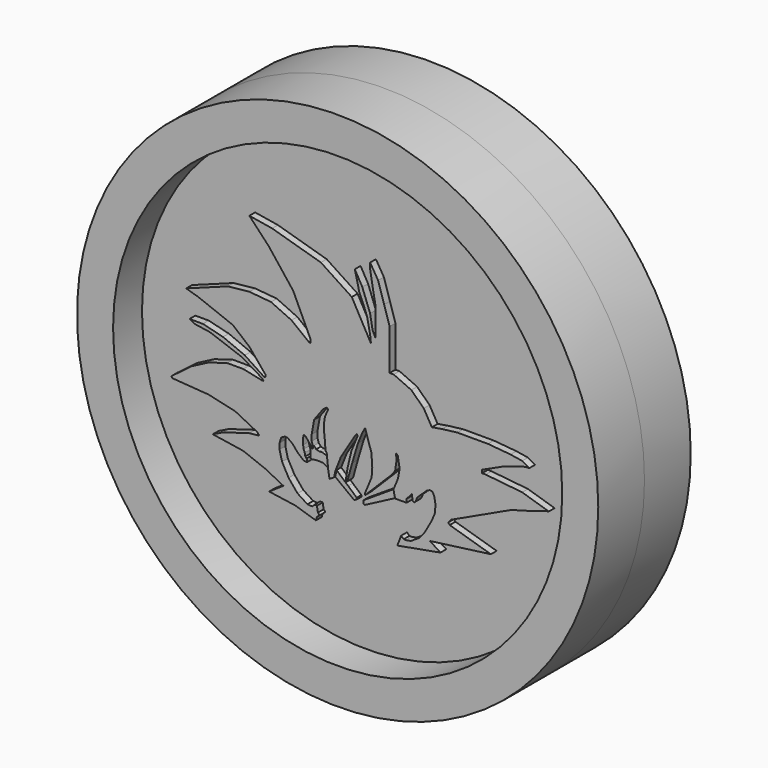
from build123d import *

# Parameters (mm, degrees)
F1_DEPTH = 5.08
F2_DEPTH = 4.826
F3_DEPTH = 4.826
F0_R     = 39.482485228
F4_DEPTH = 3.81
F5_R     = 45.8181827853
F5_R_2   = 39.482485228
F6_DEPTH = 10.16
F7_DEPTH = 3.81
F8_DEPTH = 6.35
F9_DEPTH = 10.16


with BuildPart() as f1:
    # F0 (on Front) → F1 (new body)
    with BuildSketch(Plane.XZ):
        Polygon((7.3746710645, 3.9486071669), (6.6858888604, 2.1941568702), (14.2857981846, 3.5705179907), (12.4307014048, 4.7673545778), (23.1423825026, 6.2035578303), (15.9021917557, 8.3598523904), (15.6442075968, 8.7004518136), (15.9021917557, 8.8958597378), (16.0322742485, 9.210330945), (26.7306175083, 14.2224999145), (29.925365001, 15.1111055166), (32.3584526777, 15.915080905), (33.327155305, 16.1332857281), (28.6478307098, 17.5735000521), (22.2447551787, 18.2317588478), (21.586496383, 18.2317588478), (21.586496383, 18.7703352422), (25.3565292805, 20.5057486892), (29.1864052415, 21.7025838792), (29.8776999116, 21.7025838792), (28.6448411644, 22.4349517375), (26.6068521887, 22.762035951), (22.6315110922, 23.1142807752), (17.2723513097, 23.1142807752), (14.5550305024, 22.7871965617), (12.7686439082, 22.4852710962), (11.341962032, 24.9401442707), (9.1577358544, 27.0645264536), (6.0719558969, 28.45916152), (5.3434474394, 28.45916152), (5.3434474394, 35.6499776244), (4.3805075403, 38.7313879991), (3.3178373461, 42.1319355974), (1.9164526602, 44.4467253983), (1.9164526602, 43.4294119477), (2.3951865733, 40.6168475747), (2.8739213012, 38.0436517298), (2.8739213012, 33.0169387162), (2.3353458382, 34.1539345682), (1.9164526602, 36.5476049483), (0.5400917144, 40.1979573071), (-0.7764283218, 42.5317846239), (0, 39.3003299832), (0.8991421782, 37.146024406), (1.3928283006, 35.8841791749), (1.9164526602, 33.2688912749), (2.0510982722, 31.9879353046), (-1.307500992, 38.0617417395), (-6.7421416752, 41.6345149279), (-15.3062911704, 44.1220253706), (-19.3156916648, 44.7802841663), (-15.891989693, 41.1512665451), (-11.61822211, 35.692691803), (-8.5292598233, 29.0916208178), (-8.5292598233, 28.6050047725), (-8.7704447114, 28.5796530137), (-11.907691136, 31.0169328004), (-15.5044263229, 32.6672010124), (-19.3156916648, 33.0169387162), (-23.0980009574, 32.6193674013), (-30.4214488715, 29.9246963114), (-28.2865203917, 29.2842164636), (-22.2375560552, 26.9357953221), (-19.3156916648, 24.51620996), (-16.473248601, 21.1003236473), (-16.473248601, 20.7837633789), (-16.6498859172, 20.636779121), (-20.1186016202, 22.9237489402), (-23.9429809153, 24.51620996), (-27.4654328823, 25.3894664347), (-29.8305097967, 25.3894664347), (-28.9990734309, 24.9234288931), (-26.2697860599, 24.51620996), (-20.6419527531, 22.490343079), (-17.108688131, 20.3746147454), (-16.8141527909, 20.0206589355), (-17.108688131, 20.0206589355), (-20.388064906, 20.7131318748), (-23.2019815594, 20.7131318748), (-26.4813583344, 19.7398979217), (-29.4856913388, 18.1742589921), (-33.0401137471, 15.4872853309), (-32.8464944483, 15.2311589742), (-26.4813583344, 14.7720091045), (-21.797452122, 13.7045448646), (-17.9189965129, 11.7475269362), (-17.5576060093, 11.3132283955), (-19.3156916648, 11.1284300695), (-23.9323806018, 9.7549268976), (-25.747070089, 8.8653732091), (-20.4097479582, 8.0469837412), (-16.473248601, 6.5169511363), (-13.3289005607, 4.9157547764), (-15.8459376544, 3.2246890478), (-11.2680401653, 2.5664295536), (-7.6176896691, 1.4294354478), (-7.415470896, 2.078664318), (-6.9893510081, 2.4168246891), (-7.2644398961, 2.7634674544), (-7.4476022273, 3.7587014958), (-7.8661687343, 3.7888948418), (-8.2482006401, 3.3850888722), (-9.1066886331, 3.4470160082), (-10.8456974849, 4.5592999086), (-12.4113112688, 6.4629446715), (-13.5677317157, 8.5800820962), (-14.0125080943, 10.3413984179), (-14.0125080943, 11.3199083135), (-13.7100601569, 12.2806262225), (-13.0695812404, 12.6542383805), (-12.6460829401, 12.623689279), (-11.7352511734, 11.9781773537), (-10.8812795952, 10.9462952241), (-9.7426502034, 9.9855773151), (-9.1686232148, 9.9441698083), (-9.2342048883, 10.5052217841), (-9.4832796603, 10.7187144458), (-9.5766829327, 11.2613420933), (-9.7679365426, 11.7650190368), (-9.8733649103, 12.3775066481), (-9.8733649103, 13.5352304205), (-9.7412504256, 14.0333808959), (-9.3765333295, 13.7932011858), (-8.9406520128, 13.2683645934), (-8.5581438616, 12.8057962283), (-8.3802333102, 12.6990498975), (-8.352696879, 12.5390766067), (-8.1365322694, 12.7230277285), (-8.352696879, 13.4524619207), (-8.352696879, 14.5021351054), (-7.9230396077, 16.9395133853), (-6.3396338373, 19.0744418651), (-5.6813638657, 19.5370092988), (-5.4811815873, 19.2521341149), (-5.6991549209, 18.8075751066), (-6.0371854343, 17.9358124733), (-6.1973049305, 16.9573035091), (-6.1973049305, 15.7475098968), (-6.0549764894, 14.5021351054), (-5.9304386377, 12.8475660458), (-5.6457817554, 12.2960424051), (-5.6457817554, 11.8156829849), (-5.4536014795, 9.9441698083), (-5.2270369152, 8.6279397289), (-4.4312765822, 9.1324271634), (-4.1902522432, 10.2395603864), (-3.2206494361, 12.7002792433), (-0.6462820456, 16.9105771929), (-0.4224553925, 17.1648182083), (-0.2697806922, 16.898855567), (-1.359380316, 14.2647754401), (-1.8459975254, 12.2759919614), (-2.0681489259, 11.2613420933), (-2.3537720554, 9.4409175217), (-2.2950486517, 9.0997630677), (-2.0772099709, 9.3872070875), (-1.2324367417, 12.413514778), (-0.2279107866, 15.7810896635), (0.5832642664, 17.7420852807), (1.0380979714, 18.5492494325), (2.1417033859, 15.0617426261), (2.28980463, 12.8190722317), (2.1774375765, 11.2613420933), (1.0118439494, 8.4435483441), (1.0575270371, 8.1781517919), (5.6538102217, 12.7767575905), (6.31064998, 13.6434753828), (6.5787537023, 15.4694877565), (6.4817350385, 16.0331190726), (6.4114902, 16.4412074674), (6.775308652, 16.1654886277), (7.1038365795, 14.2569009307), (6.8110791035, 12.5798108056), (6.2656883243, 11.2613420933), (6.0135602076, 10.6518286106), (6.31064998, 9.3427486718), (8.31324514, 9.3427486718), (8.31324514, 9.9441698083), (9.2348932981, 10.9910547982), (9.4150951073, 9.9441698083), (9.6678909837, 9.8395996059), (9.9333297735, 10.1411071633), (10.2059038875, 10.8000483384), (11.8465097621, 12.3470807448), (12.3542845249, 12.6221254468), (12.8459739036, 12.5866573735), (13.1794186309, 11.9874076918), (13.400657011, 10.702120156), (13.3022894952, 9.3384638239), (12.7612037113, 8.0304023312), (11.3870770693, 5.5918280709), (10.5020601743, 4.5865519306), (9.053750895, 3.6726000253), (8.1865051323, 3.523319773), (7.8284064566, 3.5491512646), align=None)
    extrude(amount=F1_DEPTH)

    # F0 (on Front) → F2 (join)
    with BuildSketch(Plane.XZ):
        Polygon((-2.1501916926, 8.4435483441), (-4.1902522432, 10.2395603864), (-4.4312765822, 9.1324271634), (-1.0950955329, 6.6041112877), (-0.6462820456, 6.8285181187), (-0.6462820456, 7.119548507), align=None)
        Polygon((-6.5773324701, 10.5773876347), (-5.4536014795, 9.9441698083), (-5.6457817554, 11.8156829849), (-6.6954549402, 12.1537139639), (-7.246978581, 12.1537139639), (-7.7629196458, 12.2960424051), (-8.1365322694, 12.7230277285), (-8.352696879, 12.5390766067), (-8.3754687761, 12.2233927005), (-8.7830464242, 12.1532357775), (-8.7830464242, 10.5285393074), (-8.4303084991, 10.5030945142), (-7.7836987329, 10.6143963772), (-7.0903799497, 10.6143963772), align=None)
    extrude(amount=F2_DEPTH)

    # F0 (on Front) → F3 (join)
    with BuildSketch(Plane.XZ):
        Polygon((0.7470592476, 6.4396390487), (6.31064998, 9.3427486718), (6.0135602076, 10.6518286106), (0.5696840817, 7.1212351322), (0.532259605, 6.6024243827), align=None)
    extrude(amount=F3_DEPTH)



with BuildPart() as f4:
    # F0 (on Front) → F4 (new body)
    with BuildSketch(Plane.XZ):
        with Locations((0.2716779029, 23.0211480592)):
            Circle(F0_R)
        Polygon((14.2857981846, 3.5705179907), (6.6858888604, 2.1941568702), (7.3746710645, 3.9486071669), (7.8284064566, 3.5491512646), (8.1865051323, 3.523319773), (9.053750895, 3.6726000253), (10.5020601743, 4.5865519306), (11.3870770693, 5.5918280709), (12.7612037113, 8.0304023312), (13.3022894952, 9.3384638239), (13.400657011, 10.702120156), (13.1794186309, 11.9874076918), (12.8459739036, 12.5866573735), (12.3542845249, 12.6221254468), (11.8465097621, 12.3470807448), (10.2059038875, 10.8000483384), (9.9333297735, 10.1411071633), (9.6678909837, 9.8395996059), (9.4150951073, 9.9441698083), (9.2348932981, 10.9910547982), (8.31324514, 9.9441698083), (8.31324514, 9.3427486718), (6.31064998, 9.3427486718), (0.7470592476, 6.4396390487), (0.532259605, 6.6024243827), (0.5696840817, 7.1212351322), (6.0135602076, 10.6518286106), (6.2656883243, 11.2613420933), (6.8110791035, 12.5798108056), (7.1038365795, 14.2569009307), (6.775308652, 16.1654886277), (6.4114902, 16.4412074674), (6.4817350385, 16.0331190726), (6.5787537023, 15.4694877565), (6.31064998, 13.6434753828), (5.6538102217, 12.7767575905), (1.0575270371, 8.1781517919), (1.0118439494, 8.4435483441), (2.1774375765, 11.2613420933), (2.28980463, 12.8190722317), (2.1417033859, 15.0617426261), (1.0380979714, 18.5492494325), (0.5832642664, 17.7420852807), (-0.2279107866, 15.7810896635), (-1.2324367417, 12.413514778), (-2.0772099709, 9.3872070875), (-2.2950486517, 9.0997630677), (-2.3537720554, 9.4409175217), (-2.0681489259, 11.2613420933), (-1.8459975254, 12.2759919614), (-1.359380316, 14.2647754401), (-0.2697806922, 16.898855567), (-0.4224553925, 17.1648182083), (-0.6462820456, 16.9105771929), (-3.2206494361, 12.7002792433), (-4.1902522432, 10.2395603864), (-2.1501916926, 8.4435483441), (-0.6462820456, 7.119548507), (-0.6462820456, 6.8285181187), (-1.0950955329, 6.6041112877), (-4.4312765822, 9.1324271634), (-5.2270369152, 8.6279397289), (-5.4536014795, 9.9441698083), (-6.5773324701, 10.5773876347), (-7.0903799497, 10.6143963772), (-7.7836987329, 10.6143963772), (-8.4303084991, 10.5030945142), (-8.7830464242, 10.5285393074), (-8.7830464242, 12.1532357775), (-8.3754687761, 12.2233927005), (-8.352696879, 12.5390766067), (-8.3802333102, 12.6990498975), (-8.5581438616, 12.8057962283), (-8.9406520128, 13.2683645934), (-9.3765333295, 13.7932011858), (-9.7412504256, 14.0333808959), (-9.8733649103, 13.5352304205), (-9.8733649103, 12.3775066481), (-9.7679365426, 11.7650190368), (-9.5766829327, 11.2613420933), (-9.4832796603, 10.7187144458), (-9.2342048883, 10.5052217841), (-9.1686232148, 9.9441698083), (-9.7426502034, 9.9855773151), (-10.8812795952, 10.9462952241), (-11.7352511734, 11.9781773537), (-12.6460829401, 12.623689279), (-13.0695812404, 12.6542383805), (-13.7100601569, 12.2806262225), (-14.0125080943, 11.3199083135), (-14.0125080943, 10.3413984179), (-13.5677317157, 8.5800820962), (-12.4113112688, 6.4629446715), (-10.8456974849, 4.5592999086), (-9.1066886331, 3.4470160082), (-8.2482006401, 3.3850888722), (-7.8661687343, 3.7888948418), (-7.4476022273, 3.7587014958), (-7.2644398961, 2.7634674544), (-6.9893510081, 2.4168246891), (-7.415470896, 2.078664318), (-7.6176896691, 1.4294354478), (-11.2680401653, 2.5664295536), (-15.8459376544, 3.2246890478), (-13.3289005607, 4.9157547764), (-16.473248601, 6.5169511363), (-20.4097479582, 8.0469837412), (-25.747070089, 8.8653732091), (-23.9323806018, 9.7549268976), (-19.3156916648, 11.1284300695), (-17.5576060093, 11.3132283955), (-17.9189965129, 11.7475269362), (-21.797452122, 13.7045448646), (-26.4813583344, 14.7720091045), (-32.8464944483, 15.2311589742), (-33.0401137471, 15.4872853309), (-29.4856913388, 18.1742589921), (-26.4813583344, 19.7398979217), (-23.2019815594, 20.7131318748), (-20.388064906, 20.7131318748), (-17.108688131, 20.0206589355), (-16.8141527909, 20.0206589355), (-17.108688131, 20.3746147454), (-20.6419527531, 22.490343079), (-26.2697860599, 24.51620996), (-28.9990734309, 24.9234288931), (-29.8305097967, 25.3894664347), (-27.4654328823, 25.3894664347), (-23.9429809153, 24.51620996), (-20.1186016202, 22.9237489402), (-16.6498859172, 20.636779121), (-16.473248601, 20.7837633789), (-16.473248601, 21.1003236473), (-19.3156916648, 24.51620996), (-22.2375560552, 26.9357953221), (-28.2865203917, 29.2842164636), (-30.4214488715, 29.9246963114), (-23.0980009574, 32.6193674013), (-19.3156916648, 33.0169387162), (-15.5044263229, 32.6672010124), (-11.907691136, 31.0169328004), (-8.7704447114, 28.5796530137), (-8.5292598233, 28.6050047725), (-8.5292598233, 29.0916208178), (-11.61822211, 35.692691803), (-15.891989693, 41.1512665451), (-19.3156916648, 44.7802841663), (-15.3062911704, 44.1220253706), (-6.7421416752, 41.6345149279), (-1.307500992, 38.0617417395), (2.0510982722, 31.9879353046), (1.9164526602, 33.2688912749), (1.3928283006, 35.8841791749), (0.8991421782, 37.146024406), (0, 39.3003299832), (-0.7764283218, 42.5317846239), (0.5400917144, 40.1979573071), (1.9164526602, 36.5476049483), (2.3353458382, 34.1539345682), (2.8739213012, 33.0169387162), (2.8739213012, 38.0436517298), (2.3951865733, 40.6168475747), (1.9164526602, 43.4294119477), (1.9164526602, 44.4467253983), (3.3178373461, 42.1319355974), (4.3805075403, 38.7313879991), (5.3434474394, 35.6499776244), (5.3434474394, 28.45916152), (6.0719558969, 28.45916152), (9.1577358544, 27.0645264536), (11.341962032, 24.9401442707), (12.7686439082, 22.4852710962), (14.5550305024, 22.7871965617), (17.2723513097, 23.1142807752), (22.6315110922, 23.1142807752), (26.6068521887, 22.762035951), (28.6448411644, 22.4349517375), (29.8776999116, 21.7025838792), (29.1864052415, 21.7025838792), (25.3565292805, 20.5057486892), (21.586496383, 18.7703352422), (21.586496383, 18.2317588478), (22.2447551787, 18.2317588478), (28.6478307098, 17.5735000521), (33.327155305, 16.1332857281), (32.3584526777, 15.915080905), (29.925365001, 15.1111055166), (26.7306175083, 14.2224999145), (16.0322742485, 9.210330945), (15.9021917557, 8.8958597378), (15.6442075968, 8.7004518136), (15.9021917557, 8.3598523904), (23.1423825026, 6.2035578303), (12.4307014048, 4.7673545778), align=None, mode=Mode.SUBTRACT)
    extrude(amount=F4_DEPTH)


with BuildPart() as f4b:
    # F0 (on Front) → F4, piece 2 (new body)
    with BuildSketch(Plane.XZ):
        Polygon((-6.6954549402, 12.1537139639), (-5.6457817554, 11.8156829849), (-5.6457817554, 12.2960424051), (-5.9304386377, 12.8475660458), (-6.0549764894, 14.5021351054), (-6.1973049305, 15.7475098968), (-6.1973049305, 16.9573035091), (-6.0371854343, 17.9358124733), (-5.6991549209, 18.8075751066), (-5.4811815873, 19.2521341149), (-5.6813638657, 19.5370092988), (-6.3396338373, 19.0744418651), (-7.9230396077, 16.9395133853), (-8.352696879, 14.5021351054), (-8.352696879, 13.4524619207), (-8.1365322694, 12.7230277285), (-7.7629196458, 12.2960424051), (-7.246978581, 12.1537139639), align=None)
    extrude(amount=F4_DEPTH)


with BuildPart() as f6:
    # F5 (on face) → F6 (new body)
    with BuildSketch(Plane.XZ):
        with Locations((0.2678177843, 23.0474323034)):
            Circle(F5_R)
        with Locations((0.2716779029, 23.0211480592)):
            Circle(F5_R_2, mode=Mode.SUBTRACT)
    extrude(amount=-F6_DEPTH)


with BuildPart() as f7:
    # F5 (on face) → F7 (new body)
    with BuildSketch(Plane.XZ):
        with Locations((0.2716779029, 23.0211480592)):
            Circle(F5_R_2)
        Polygon((5.1622191606, 36.2299086242), (5.2826427855, 36.0397659242), (7.8417314216, 37.3795069754), (11.3018797711, 38.0667969584), (14.572430402, 38.0667969584), (17.4668319523, 37.1786095202), (17.1094339395, 36.4122130938), (15.5563987792, 36.2569093704), (12.3555865139, 34.6481241286), (9.1646477155, 32.5048943961), (9.5669357106, 32.5451232493), (12.3569881544, 32.8241288662), (16.1335226148, 32.8241288662), (16.4424218237, 32.5152277946), (16.3273215294, 32.2564542294), (14.4953746349, 31.467307359), (9.3095581979, 28.395274654), (12.3815909028, 28.1698033214), (9.7425730564, 26.4957127728), (11.341962032, 24.9401442707), (12.7686439082, 22.4852710962), (14.5550305024, 22.7871965617), (17.2723513097, 23.1142807752), (22.6315110922, 23.1142807752), (26.6068521887, 22.762035951), (28.6448411644, 22.4349517375), (29.8776999116, 21.7025838792), (29.1864052415, 21.7025838792), (25.3565292805, 20.5057486892), (21.586496383, 18.7703352422), (21.586496383, 18.2317588478), (22.2447551787, 18.2317588478), (28.6478307098, 17.5735000521), (33.327155305, 16.1332857281), (32.3584526777, 15.915080905), (29.925365001, 15.1111055166), (26.7306175083, 14.2224999145), (17.6815291171, 9.9830061037), (17.7451393885, 7.8109803932), (23.1423825026, 6.2035578303), (17.8131405963, 5.489022503), (17.9156064987, 1.9902389031), (16.3277294487, -1.7069055466), (13.2230762392, -2.7022906579), (9.2820804566, -3.285102779), (5.62879676, -1.6428012168), (2.8469390236, 2.0104821306), (0.6683753454, 2.3288875818), (-3.638476599, 3.7533328868), (-6.3712461852, 4.0942365304), (-6.8080946803, 5.8698146604), (-6.8080946803, 8.3358958364), (-6.1035002582, 8.8009284809), (-5.8956862183, 10.1932827541), (-6.5773324701, 10.5773876347), (-7.0903799497, 10.6143963772), (-7.7836987329, 10.6143963772), (-8.4303084991, 10.5030945142), (-8.7830464242, 10.5285393074), (-8.7830464242, 12.1532357775), (-8.3754687761, 12.2233927005), (-8.352696879, 12.5390766067), (-8.3802333102, 12.6990498975), (-8.5581438616, 12.8057962283), (-8.9406520128, 13.2683645934), (-9.3765333295, 13.7932011858), (-9.7412504256, 14.0333808959), (-9.8733649103, 13.5352304205), (-9.8733649103, 12.3775066481), (-9.7679365426, 11.7650190368), (-9.5766829327, 11.2613420933), (-9.4832796603, 10.7187144458), (-9.2342048883, 10.5052217841), (-9.1686232148, 9.9441698083), (-9.7426502034, 9.9855773151), (-10.8812795952, 10.9462952241), (-11.7352511734, 11.9781773537), (-12.6460829401, 12.623689279), (-13.0695812404, 12.6542383805), (-13.7100601569, 12.2806262225), (-14.0125080943, 11.3199083135), (-14.0125080943, 10.3413984179), (-13.5677317157, 8.5800820962), (-12.4113112688, 6.4629446715), (-10.8456974849, 4.5592999086), (-9.1066886331, 3.4470160082), (-8.2482006401, 3.3850888722), (-7.8661687343, 3.7888948418), (-7.4476022273, 3.7587014958), (-7.2644398961, 2.7634674544), (-6.9893510081, 2.4168246891), (-7.415470896, 2.078664318), (-7.6176896691, 1.4294354478), (-11.2680401653, 2.5664295536), (-15.8459376544, 3.2246890478), (-13.3289005607, 4.9157547764), (-16.473248601, 6.5169511363), (-20.4097479582, 8.0469837412), (-25.747070089, 8.8653732091), (-23.9323806018, 9.7549268976), (-19.3156916648, 11.1284300695), (-17.5576060093, 11.3132283955), (-17.9189965129, 11.7475269362), (-21.797452122, 13.7045448646), (-26.4813583344, 14.7720091045), (-32.8464944483, 15.2311589742), (-33.0401137471, 15.4872853309), (-29.4856913388, 18.1742589921), (-26.4813583344, 19.7398979217), (-23.2019815594, 20.7131318748), (-20.388064906, 20.7131318748), (-17.108688131, 20.0206589355), (-16.8141527909, 20.0206589355), (-17.108688131, 20.3746147454), (-20.6419527531, 22.490343079), (-26.2697860599, 24.51620996), (-28.9990734309, 24.9234288931), (-29.8305097967, 25.3894664347), (-27.4654328823, 25.3894664347), (-23.9429809153, 24.51620996), (-20.1186016202, 22.9237489402), (-16.6498859172, 20.636779121), (-16.473248601, 20.7837633789), (-16.473248601, 21.1003236473), (-19.3156916648, 24.51620996), (-22.2375560552, 26.9357953221), (-28.2865203917, 29.2842164636), (-30.4214488715, 29.9246963114), (-23.0980009574, 32.6193674013), (-19.3156916648, 33.0169387162), (-16.5024432713, 32.7587832363), (-15.7451611012, 33.7237082422), (-13.9977661893, 34.9356122315), (-13.9977661893, 35.442918539), (-14.8150939494, 35.8374901116), (-18.5071714222, 36.964841187), (-21.0437104106, 37.3594164848), (-22.0865122974, 37.3594164848), (-20.1418306679, 38.5149493814), (-16.2806510925, 40.2341596782), (-15.4051800636, 40.529499756), (-15.891989693, 41.1512665451), (-19.3156916648, 44.7802841663), (-15.3062911704, 44.1220253706), (-6.9555210863, 41.6964923039), (-7.2618406266, 42.2070249915), (-8.5582947358, 43.7007658184), (-10.5311600491, 45.3354269266), (-12.250370346, 46.7446148396), (-11.602143757, 46.7446148396), (-8.8964998722, 46.3782250881), (-5.4862620309, 44.8844842613), (-3.2315587159, 43.1652739644), (-0.582283421, 39.9523228407), (-0.1566556788, 39.9523228407), (-0.7764283218, 42.5317846239), (0.5400917144, 40.1979573071), (0.6327078931, 39.9523228407), (0.7141709211, 39.9523228407), (2.1991378162, 39.5254679024), (2.6695449216, 39.142173354), (2.3951865733, 40.6168475747), (1.9164526602, 43.4294119477), (1.9164526602, 44.4467253983), (3.3178373461, 42.1319355974), (4.3805075403, 38.7313879991), align=None, mode=Mode.SUBTRACT)
        Polygon((-17.4925550818, 31.4971879125), (-16.5024432713, 32.7587832363), (-19.3156916648, 33.0169387162), (-23.0980009574, 32.6193674013), (-30.4214488715, 29.9246963114), (-28.2865203917, 29.2842164636), (-22.2375560552, 26.9357953221), (-19.3156916648, 24.51620996), (-16.473248601, 21.1003236473), (-16.473248601, 20.7837633789), (-16.6498859172, 20.636779121), (-20.1186016202, 22.9237489402), (-23.9429809153, 24.51620996), (-27.4654328823, 25.3894664347), (-29.8305097967, 25.3894664347), (-28.9990734309, 24.9234288931), (-26.2697860599, 24.51620996), (-20.6419527531, 22.490343079), (-17.108688131, 20.3746147454), (-16.8141527909, 20.0206589355), (-17.108688131, 20.0206589355), (-20.388064906, 20.7131318748), (-23.2019815594, 20.7131318748), (-26.4813583344, 19.7398979217), (-29.4856913388, 18.1742589921), (-33.0401137471, 15.4872853309), (-32.8464944483, 15.2311589742), (-26.4813583344, 14.7720091045), (-21.797452122, 13.7045448646), (-17.9189965129, 11.7475269362), (-17.5576060093, 11.3132283955), (-19.3156916648, 11.1284300695), (-23.9323806018, 9.7549268976), (-25.747070089, 8.8653732091), (-20.4097479582, 8.0469837412), (-16.473248601, 6.5169511363), (-13.3289005607, 4.9157547764), (-15.8459376544, 3.2246890478), (-11.2680401653, 2.5664295536), (-7.6176896691, 1.4294354478), (-7.415470896, 2.078664318), (-6.9893510081, 2.4168246891), (-7.2644398961, 2.7634674544), (-7.4476022273, 3.7587014958), (-7.8661687343, 3.7888948418), (-8.2482006401, 3.3850888722), (-9.1066886331, 3.4470160082), (-10.8456974849, 4.5592999086), (-12.4113112688, 6.4629446715), (-13.5677317157, 8.5800820962), (-14.0125080943, 10.3413984179), (-14.0125080943, 11.3199083135), (-13.7100601569, 12.2806262225), (-13.0695812404, 12.6542383805), (-12.6460829401, 12.623689279), (-11.7352511734, 11.9781773537), (-10.8812795952, 10.9462952241), (-9.7426502034, 9.9855773151), (-9.1686232148, 9.9441698083), (-9.2342048883, 10.5052217841), (-9.4832796603, 10.7187144458), (-9.5766829327, 11.2613420933), (-9.7679365426, 11.7650190368), (-9.8733649103, 12.3775066481), (-9.8733649103, 13.5352304205), (-9.7412504256, 14.0333808959), (-9.3765333295, 13.7932011858), (-8.9406520128, 13.2683645934), (-8.5581438616, 12.8057962283), (-8.3802333102, 12.6990498975), (-8.352696879, 12.5390766067), (-8.3754687761, 12.2233927005), (-8.7830464242, 12.1532357775), (-8.7830464242, 10.5285393074), (-8.4303084991, 10.5030945142), (-7.7836987329, 10.6143963772), (-7.0903799497, 10.6143963772), (-6.5773324701, 10.5773876347), (-5.8956862183, 10.1932827541), (-5.8216624893, 10.6892418116), (-1.6504620435, 15.3254754841), (-1.340440358, 16.4528265595), (-1.340440358, 17.5097193569), (-1.6222783597, 18.7920816243), (-1.8105639589, 18.6503659682), (-3.2207276672, 17.0624144375), (-4.7624800354, 17.0624144375), (-5.6674219668, 18.4533447027), (-5.9187943116, 18.4533447027), (-6.6896704957, 18.654441461), (-6.8740104325, 19.5928998291), (-7.8627429903, 19.5928998291), (-7.8627429903, 20.145919174), (-9.1363647953, 20.145919174), (-8.5582947358, 21.9563001908), (-8.5582947358, 22.9859648489), (-8.7509267032, 23.1570296479), (-9.8185267631, 23.1570296479), (-10.2114809215, 23.3467314392), (-10.2114809215, 23.7423605254), (-10.398653862, 23.8327197731), (-10.398653862, 23.665137589), (-10.398653862, 22.7980223816), (-10.0069723966, 22.4501937628), (-9.7239095044, 21.819649295), (-10.0069723966, 21.9563001908), (-11.0300388187, 22.4501937628), (-12.1528366581, 23.4472826123), (-12.1528366581, 24.637112394), (-12.1528366581, 25.7195141166), (-12.5047583133, 25.7195141166), (-13.0577785894, 25.4582632333), (-13.9977661893, 24.637112394), (-14.5660154521, 24.0848530084), (-14.7480752441, 23.2895927504), (-15.1533018798, 22.4501937628), (-15.6042426825, 24.0848530084), (-15.3971441162, 26.2813681021), (-14.7023620084, 27.720561251), (-13.724272934, 28.9695362667), (-13.9977661893, 29.1015673429), (-15.0405671448, 28.5097081214), (-16.0833671689, 28.0023999512), (-17.5207406282, 27.0441509783), (-18.8016222993, 26.0919897364), (-19.2399509251, 25.1840222627), (-19.5217877626, 25.7195141166), (-19.2399509251, 28.5097081214), align=None)
        Polygon((11.341962032, 24.9401442707), (9.7425730564, 26.4957127728), (5.9838709421, 24.1113379598), (7.95752462, 21.3546231389), (8.7954336777, 21.3546231389), (9.4825187698, 20.4745717347), (10.3749735281, 20.4745717347), (13.17153126, 18.6503659682), (16.9673319906, 14.7369699553), (17.6041424274, 12.6254390925), (17.6815291171, 9.9830061037), (26.7306175083, 14.2224999145), (29.925365001, 15.1111055166), (32.3584526777, 15.915080905), (33.327155305, 16.1332857281), (28.6478307098, 17.5735000521), (22.2447551787, 18.2317588478), (21.586496383, 18.2317588478), (21.586496383, 18.7703352422), (25.3565292805, 20.5057486892), (29.1864052415, 21.7025838792), (29.8776999116, 21.7025838792), (28.6448411644, 22.4349517375), (26.6068521887, 22.762035951), (22.6315110922, 23.1142807752), (17.2723513097, 23.1142807752), (14.5550305024, 22.7871965617), (12.7686439082, 22.4852710962), align=None)
        Polygon((-6.078121718, 40.2341596782), (-6.9555210863, 41.6964923039), (-15.3062911704, 44.1220253706), (-19.3156916648, 44.7802841663), (-15.891989693, 41.1512665451), (-15.4051800636, 40.529499756), (-13.9413978904, 41.0233065486), (-11.4894080907, 41.6715331376), (-9.0937865898, 41.3615107536), (-6.6981646232, 40.2341596782), (-6.078121718, 39.8677736521), align=None)
        Polygon((4.0090214461, 38.0507484078), (5.1622191606, 36.2299086242), (4.3805075403, 38.7313879991), (3.3178373461, 42.1319355974), (1.9164526602, 44.4467253983), (1.9164526602, 43.4294119477), (2.3951865733, 40.6168475747), (2.6695449216, 39.142173354), align=None)
        Polygon((-0.1566556788, 39.9523228407), (0.6327078931, 39.9523228407), (0.5400917144, 40.1979573071), (-0.7764283218, 42.5317846239), align=None)
        Polygon((23.1423825026, 6.2035578303), (17.7451393885, 7.8109803932), (17.8131405963, 5.489022503), align=None)
    extrude(amount=-F7_DEPTH)


with BuildPart() as f1_1:
    add(f1.part)

    add(f4.part)  # F8 merges F4

    add(f4b.part)  # F8 merges F4b

    add(f7.part)  # F8 merges F7
    # F5 (on face) → F8 (join)
    with BuildSketch(Plane.XZ):
        Polygon((-11.61822211, 35.692691803), (-15.4051800636, 40.529499756), (-16.2806510925, 40.2341596782), (-20.1418306679, 38.5149493814), (-22.0865122974, 37.3594164848), (-21.0437104106, 37.3594164848), (-18.5071714222, 36.964841187), (-14.8150939494, 35.8374901116), (-13.9977661893, 35.442918539), (-13.9977661893, 34.9356122315), (-15.7451611012, 33.7237082422), (-16.5024432713, 32.7587832363), (-15.5044263229, 32.6672010124), (-11.907691136, 31.0169328004), (-8.7704447114, 28.5796530137), (-8.5292598233, 28.6050047725), (-8.5292598233, 29.0916208178), align=None)
        Polygon((0, 39.3003299832), (-0.1566556788, 39.9523228407), (-0.582283421, 39.9523228407), (-3.2315587159, 43.1652739644), (-5.4862620309, 44.8844842613), (-8.8964998722, 46.3782250881), (-11.602143757, 46.7446148396), (-12.250370346, 46.7446148396), (-10.5311600491, 45.3354269266), (-8.5582947358, 43.7007658184), (-7.2618406266, 42.2070249915), (-6.9555210863, 41.6964923039), (-6.7421416752, 41.6345149279), (-1.307500992, 38.0617417395), (2.0510982722, 31.9879353046), (1.9164526602, 33.2688912749), (1.3928283006, 35.8841791749), (0.8991421782, 37.146024406), align=None)
        Polygon((5.3434474394, 35.6499776244), (5.1622191606, 36.2299086242), (4.0090214461, 38.0507484078), (2.6695449216, 39.142173354), (2.8739213012, 38.0436517298), (2.8739213012, 33.0169387162), (2.3353458382, 34.1539345682), (1.9164526602, 36.5476049483), (0.6327078931, 39.9523228407), (-0.1566556788, 39.9523228407), (0, 39.3003299832), (0.8991421782, 37.146024406), (1.3928283006, 35.8841791749), (1.9164526602, 33.2688912749), (2.0510982722, 31.9879353046), (-1.307500992, 38.0617417395), (-6.7421416752, 41.6345149279), (-6.9555210863, 41.6964923039), (-6.078121718, 40.2341596782), (-6.078121718, 39.8677736521), (-6.6981646232, 40.2341596782), (-9.0937865898, 41.3615107536), (-11.4894080907, 41.6715331376), (-13.9413978904, 41.0233065486), (-15.4051800636, 40.529499756), (-11.61822211, 35.692691803), (-8.5292598233, 29.0916208178), (-8.5292598233, 28.6050047725), (-8.7704447114, 28.5796530137), (-11.907691136, 31.0169328004), (-15.5044263229, 32.6672010124), (-16.5024432713, 32.7587832363), (-17.4925550818, 31.4971879125), (-19.2399509251, 28.5097081214), (-19.5217877626, 25.7195141166), (-19.2399509251, 25.1840222627), (-18.8016222993, 26.0919897364), (-17.5207406282, 27.0441509783), (-16.0833671689, 28.0023999512), (-15.0405671448, 28.5097081214), (-13.9977661893, 29.1015673429), (-13.724272934, 28.9695362667), (-14.7023620084, 27.720561251), (-15.3971441162, 26.2813681021), (-15.6042426825, 24.0848530084), (-15.1533018798, 22.4501937628), (-14.7480752441, 23.2895927504), (-14.5660154521, 24.0848530084), (-13.9977661893, 24.637112394), (-13.0577785894, 25.4582632333), (-12.5047583133, 25.7195141166), (-12.1528366581, 25.7195141166), (-12.1528366581, 24.637112394), (-12.1528366581, 23.4472826123), (-11.0300388187, 22.4501937628), (-10.0069723966, 21.9563001908), (-9.7239095044, 21.819649295), (-10.0069723966, 22.4501937628), (-10.398653862, 22.7980223816), (-10.398653862, 23.665137589), (-10.398653862, 23.8327197731), (-10.2114809215, 23.7423605254), (-10.2114809215, 23.3467314392), (-9.8185267631, 23.1570296479), (-8.7509267032, 23.1570296479), (-8.5582947358, 22.9859648489), (-8.5582947358, 21.9563001908), (-9.1363647953, 20.145919174), (-7.8627429903, 20.145919174), (-7.8627429903, 19.5928998291), (-6.8740104325, 19.5928998291), (-6.6896704957, 18.654441461), (-5.9187943116, 18.4533447027), (-5.6674219668, 18.4533447027), (-4.7624800354, 17.0624144375), (-3.2207276672, 17.0624144375), (-1.8105639589, 18.6503659682), (-1.6222783597, 18.7920816243), (-1.340440358, 17.5097193569), (-1.340440358, 16.4528265595), (-1.6504620435, 15.3254754841), (-5.8216624893, 10.6892418116), (-5.8956862183, 10.1932827541), (-5.4536014795, 9.9441698083), (-5.2270369152, 8.6279397289), (-4.4312765822, 9.1324271634), (-1.0950955329, 6.6041112877), (-0.6462820456, 6.8285181187), (-0.6462820456, 7.119548507), (-2.1501916926, 8.4435483441), (-4.1902522432, 10.2395603864), (-3.2206494361, 12.7002792433), (-0.6462820456, 16.9105771929), (-0.4224553925, 17.1648182083), (-0.2697806922, 16.898855567), (-1.359380316, 14.2647754401), (-1.8459975254, 12.2759919614), (-2.0681489259, 11.2613420933), (-2.3537720554, 9.4409175217), (-2.2950486517, 9.0997630677), (-2.0772099709, 9.3872070875), (-1.2324367417, 12.413514778), (-0.2279107866, 15.7810896635), (0.5832642664, 17.7420852807), (1.0380979714, 18.5492494325), (2.1417033859, 15.0617426261), (2.28980463, 12.8190722317), (2.1774375765, 11.2613420933), (1.0118439494, 8.4435483441), (1.0575270371, 8.1781517919), (5.6538102217, 12.7767575905), (6.31064998, 13.6434753828), (6.5787537023, 15.4694877565), (6.4817350385, 16.0331190726), (6.4114902, 16.4412074674), (6.775308652, 16.1654886277), (7.1038365795, 14.2569009307), (6.8110791035, 12.5798108056), (6.2656883243, 11.2613420933), (6.0135602076, 10.6518286106), (0.5696840817, 7.1212351322), (0.532259605, 6.6024243827), (0.7470592476, 6.4396390487), (6.31064998, 9.3427486718), (8.31324514, 9.3427486718), (8.31324514, 9.9441698083), (9.2348932981, 10.9910547982), (9.4150951073, 9.9441698083), (9.6678909837, 9.8395996059), (9.9333297735, 10.1411071633), (10.2059038875, 10.8000483384), (11.8465097621, 12.3470807448), (12.3542845249, 12.6221254468), (12.8459739036, 12.5866573735), (13.1794186309, 11.9874076918), (13.400657011, 10.702120156), (13.3022894952, 9.3384638239), (12.7612037113, 8.0304023312), (11.3870770693, 5.5918280709), (10.5020601743, 4.5865519306), (9.053750895, 3.6726000253), (8.1865051323, 3.523319773), (7.8284064566, 3.5491512646), (7.3746710645, 3.9486071669), (6.6858888604, 2.1941568702), (14.2857981846, 3.5705179907), (12.4307014048, 4.7673545778), (17.8131405963, 5.489022503), (17.7451393885, 7.8109803932), (15.9021917557, 8.3598523904), (15.6442075968, 8.7004518136), (15.9021917557, 8.8958597378), (16.0322742485, 9.210330945), (17.6815291171, 9.9830061037), (17.6041424274, 12.6254390925), (16.9673319906, 14.7369699553), (13.17153126, 18.6503659682), (10.3749735281, 20.4745717347), (9.4825187698, 20.4745717347), (8.7954336777, 21.3546231389), (7.95752462, 21.3546231389), (5.9838709421, 24.1113379598), (9.7425730564, 26.4957127728), (9.1577358544, 27.0645264536), (6.0719558969, 28.45916152), (5.3434474394, 28.45916152), align=None)
        Polygon((7.8417314216, 37.3795069754), (5.2826427855, 36.0397659242), (5.1622191606, 36.2299086242), (5.3434474394, 35.6499776244), (5.3434474394, 28.45916152), (6.0719558969, 28.45916152), (9.1577358544, 27.0645264536), (9.7425730564, 26.4957127728), (12.3815909028, 28.1698033214), (9.3095581979, 28.395274654), (14.4953746349, 31.467307359), (16.3273215294, 32.2564542294), (16.4424218237, 32.5152277946), (16.1335226148, 32.8241288662), (12.3569881544, 32.8241288662), (9.5669357106, 32.5451232493), (9.1646477155, 32.5048943961), (12.3555865139, 34.6481241286), (15.5563987792, 36.2569093704), (17.1094339395, 36.4122130938), (17.4668319523, 37.1786095202), (14.572430402, 38.0667969584), (11.3018797711, 38.0667969584), align=None)
        Polygon((17.9156064987, 1.9902389031), (17.8131405963, 5.489022503), (12.4307014048, 4.7673545778), (14.2857981846, 3.5705179907), (6.6858888604, 2.1941568702), (7.3746710645, 3.9486071669), (7.8284064566, 3.5491512646), (8.1865051323, 3.523319773), (9.053750895, 3.6726000253), (10.5020601743, 4.5865519306), (11.3870770693, 5.5918280709), (12.7612037113, 8.0304023312), (13.3022894952, 9.3384638239), (13.400657011, 10.702120156), (13.1794186309, 11.9874076918), (12.8459739036, 12.5866573735), (12.3542845249, 12.6221254468), (11.8465097621, 12.3470807448), (10.2059038875, 10.8000483384), (9.9333297735, 10.1411071633), (9.6678909837, 9.8395996059), (9.4150951073, 9.9441698083), (9.2348932981, 10.9910547982), (8.31324514, 9.9441698083), (8.31324514, 9.3427486718), (6.31064998, 9.3427486718), (0.7470592476, 6.4396390487), (0.532259605, 6.6024243827), (0.5696840817, 7.1212351322), (6.0135602076, 10.6518286106), (6.2656883243, 11.2613420933), (6.8110791035, 12.5798108056), (7.1038365795, 14.2569009307), (6.775308652, 16.1654886277), (6.4114902, 16.4412074674), (6.4817350385, 16.0331190726), (6.5787537023, 15.4694877565), (6.31064998, 13.6434753828), (5.6538102217, 12.7767575905), (1.0575270371, 8.1781517919), (1.0118439494, 8.4435483441), (2.1774375765, 11.2613420933), (2.28980463, 12.8190722317), (2.1417033859, 15.0617426261), (1.0380979714, 18.5492494325), (0.5832642664, 17.7420852807), (-0.2279107866, 15.7810896635), (-1.2324367417, 12.413514778), (-2.0772099709, 9.3872070875), (-2.2950486517, 9.0997630677), (-2.3537720554, 9.4409175217), (-2.0681489259, 11.2613420933), (-1.8459975254, 12.2759919614), (-1.359380316, 14.2647754401), (-0.2697806922, 16.898855567), (-0.4224553925, 17.1648182083), (-0.6462820456, 16.9105771929), (-3.2206494361, 12.7002792433), (-4.1902522432, 10.2395603864), (-2.1501916926, 8.4435483441), (-0.6462820456, 7.119548507), (-0.6462820456, 6.8285181187), (-1.0950955329, 6.6041112877), (-4.4312765822, 9.1324271634), (-5.2270369152, 8.6279397289), (-5.4536014795, 9.9441698083), (-5.8956862183, 10.1932827541), (-6.1035002582, 8.8009284809), (-6.8080946803, 8.3358958364), (-6.8080946803, 5.8698146604), (-6.3712461852, 4.0942365304), (-3.638476599, 3.7533328868), (0.6683753454, 2.3288875818), (2.8469390236, 2.0104821306), (5.62879676, -1.6428012168), (9.2820804566, -3.285102779), (13.2230762392, -2.7022906579), (16.3277294487, -1.7069055466), align=None)
        Polygon((2.8739213012, 38.0436517298), (2.6695449216, 39.142173354), (2.1991378162, 39.5254679024), (0.7141709211, 39.9523228407), (0.6327078931, 39.9523228407), (1.9164526602, 36.5476049483), (2.3353458382, 34.1539345682), (2.8739213012, 33.0169387162), align=None)
        Polygon((17.7451393885, 7.8109803932), (17.6815291171, 9.9830061037), (16.0322742485, 9.210330945), (15.9021917557, 8.8958597378), (15.6442075968, 8.7004518136), (15.9021917557, 8.3598523904), align=None)
    extrude(amount=-F8_DEPTH)

    # F9 (add): a face of the model
    f9_faces = [f6.part.faces().sort_by_distance(p)[0] for p in [
        (-44.254431091, 0, 23.0474323034),
    ]]

    add(f6.part)  # F9 merges F6
    extrude(f9_faces, amount=F9_DEPTH)


solid = f1_1.part
